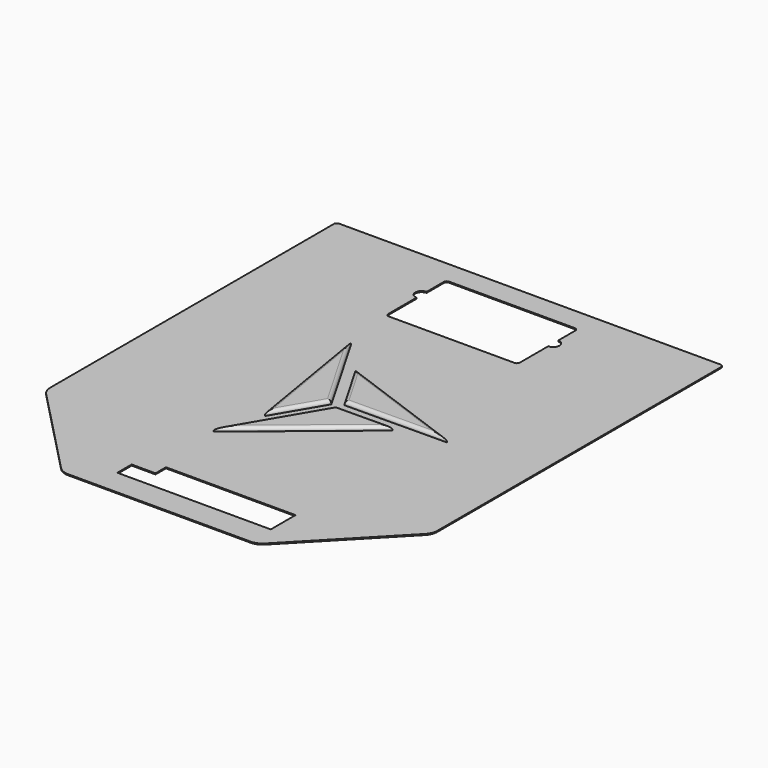
from build123d import *

# Parameters (mm, degrees)
F1_DEPTH = 0.35
F3_DEPTH = 2
F5_DEPTH = 1.3
F6_R     = 1.1


with BuildPart() as f1:
    # F0 (on Top) → F1 (new body)
    with BuildSketch(Plane.XY):
        with BuildLine():
            Line((47.8413986466, -33.0526276553), (47.8413986466, 85.9473723447))
            ThreePointArc((47.8413986466, 85.9473723447), (47.5485054278, 86.6544791259), (46.8413986466, 86.9473723447))
            Line((46.8413986466, 86.9473723447), (-81.1586013534, 86.9473723447))
            ThreePointArc((-81.1586013534, 86.9473723447), (-81.8657081346, 86.6544791259), (-82.1586013534, 85.9473723447))
            Line((-82.1586013534, 85.9473723447), (-82.1586013534, -33.0526276553))
            ThreePointArc((-82.1586013534, -33.0526276553), (-81.7948777262, -34.9247765264), (-80.7566247951, -36.5245474862))
            Line((-80.7566247951, -36.5245474862), (-51.3861264072, -66.9618118353))
            ThreePointArc((-51.3861264072, -66.9618118353), (-49.742636266, -68.0920436291), (-47.7881029655, -68.4898920043))
            Line((-47.7881029655, -68.4898920043), (13.4709002587, -68.4898920043))
            ThreePointArc((13.4709002587, -68.4898920043), (15.4254335591, -68.0920436291), (17.0689237004, -66.9618118353))
            Line((17.0689237004, -66.9618118353), (46.4394220883, -36.5245474862))
            ThreePointArc((46.4394220883, -36.5245474862), (47.4776750193, -34.9247765264), (47.8413986466, -33.0526276553))
        make_face()
        with BuildLine():
            ThreePointArc((-39.1047286936, 78.250517656), (-38.8118354748, 78.9576244372), (-38.1047286936, 79.250517656))
            Line((-38.1047286936, 79.250517656), (4.0952713064, 79.250517656))
            ThreePointArc((4.0952713064, 79.250517656), (4.8023780876, 78.9576244372), (5.0952713064, 78.250517656))
            Line((5.0952713064, 78.250517656), (5.0952713064, 71.050517656))
            ThreePointArc((5.0952713064, 71.050517656), (7.1952713064, 68.950517656), (5.0952713064, 66.850517656))
            Line((5.0952713064, 66.850517656), (5.0952713064, 54.950517656))
            ThreePointArc((5.0952713064, 54.950517656), (4.8023780876, 54.2434108748), (4.0952713064, 53.950517656))
            Line((4.0952713064, 53.950517656), (-38.1047286936, 53.950517656))
            ThreePointArc((-38.1047286936, 53.950517656), (-38.8118354748, 54.2434108748), (-39.1047286936, 54.950517656))
            Line((-39.1047286936, 54.950517656), (-39.1047286936, 66.850517656))
            ThreePointArc((-39.1047286936, 66.850517656), (-41.2047286936, 68.950517656), (-39.1047286936, 71.050517656))
            Line((-39.1047286936, 71.050517656), (-39.1047286936, 78.250517656))
        make_face(mode=Mode.SUBTRACT)
    extrude(amount=F1_DEPTH)

    # F2 (on face) → F3 (cut)
    with BuildSketch(Plane.XY.offset(0.35)):
        Polygon((13.2559401929, -49.3898926318), (-30.2440598071, -49.3898926318), (-30.2440598071, -53.7898926318), (-38.2440598071, -53.7898926318), (-38.2440598071, -59.7898926318), (-30.2440598071, -59.7898926318), (13.2559401929, -59.7898926318), align=None)
    extrude(amount=-F3_DEPTH, mode=Mode.SUBTRACT)

    # F4 (on face) → F5 (join)
    with BuildSketch(Plane.XY.offset(0.35)):
        Polygon((-35.7913524045, 35.1850536081), (-28.1538574591, -10.5309743335), (-18.6824351945, 5.5515397377), align=None)
        Polygon((18.5652113225, 7.5971377061), (-24.9834829413, 23.4652745761), (-15.6513462812, 7.3015397377), align=None)
        Polygon((-33.1309387548, -25.878880379), (3.1361268654, 3.9696324182), (-15.6513462812, 3.8015397377), align=None)
    extrude(amount=F5_DEPTH)

    # F6
    f6_edges = [f1.edges().sort_by_distance(p)[0] for p in [
        (-14.997406, -10.954624, 1.65),
        (-6.25761, 3.885586, 1.65),
        (-24.391143, -11.03867, 1.65),
        (-31.972605, 12.32704, 1.65),
        (-23.418146, -2.489717, 1.65),
        (-27.236894, 20.368297, 1.65),
        (1.456933, 7.449339, 1.65),
        (-3.209136, 15.531206, 1.65),
        (-20.317415, 15.383407, 1.65),
    ]]
    fillet(f6_edges, radius=F6_R)


solid = f1.part
